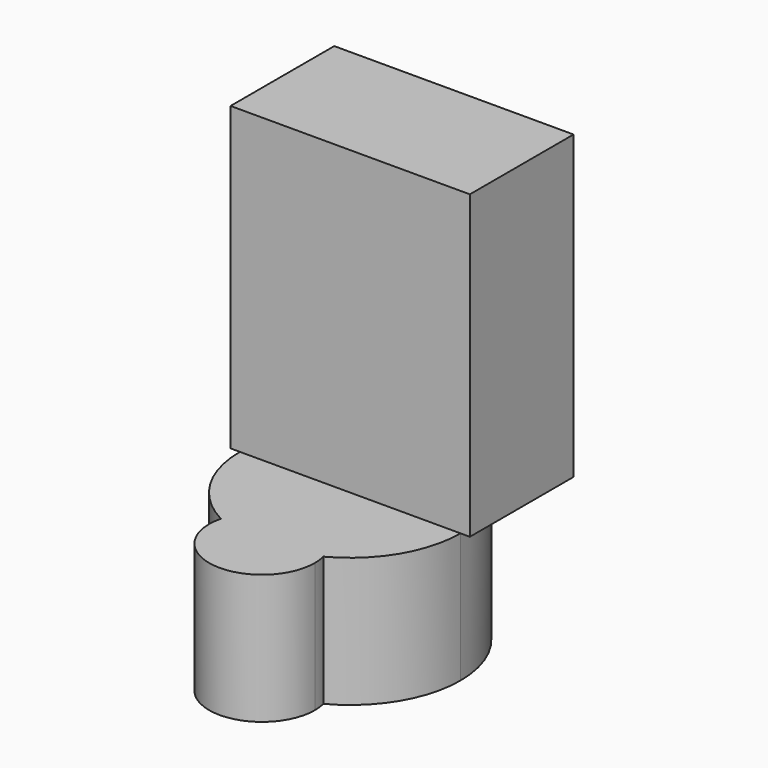
from build123d import *

# Parameters (mm, degrees)
F0_W     = 46.8976274133
F0_H     = 59.0890496969
F1_DEPTH = 25.4
F3_DEPTH = 25.4


with BuildPart() as f1:
    # F0 (on Front) → F1 (new body)
    with BuildSketch(Plane.XZ):
        with Locations((23.4488137066, 29.5445248485)):
            Rectangle(F0_W, F0_H)
    extrude(amount=F1_DEPTH)

    # F2 (on face) → F3 (join)
    with BuildSketch(Plane(origin=(0, 0, 0), x_dir=(1, 0, 0), z_dir=(0, 0, -1))):
        with BuildLine():
            ThreePointArc((13.4045526503, 44.5409267939), (12.2652766569, 6.901601211), (45.0650635825, 25.4))
            ThreePointArc((45.0650635825, 25.4), (41.9472124956, 36.5835370497), (33.493074763, 44.5409267939))
            ThreePointArc((33.493074763, 44.5409267939), (23.4488137066, 36.6714731974), (13.4045526503, 44.5409267939))
        make_face()
        with BuildLine():
            ThreePointArc((13.4045526503, 44.5409267939), (23.4488137066, 36.6714731974), (33.493074763, 44.5409267939))
            ThreePointArc((33.493074763, 44.5409267939), (23.4488137066, 47.0162498759), (13.4045526503, 44.5409267939))
        make_face()
        with BuildLine():
            ThreePointArc((13.4045526503, 44.5409267939), (23.4488137066, 47.0162498759), (33.493074763, 44.5409267939))
            ThreePointArc((33.493074763, 44.5409267939), (33.7181866684, 45.7695007031), (33.7935903851, 47.0162498759))
            ThreePointArc((33.7935903851, 47.0162498759), (22.2020645338, 57.2856228377), (13.4045526503, 44.5409267939))
        make_face()
    extrude(amount=F3_DEPTH)


solid = f1.part
